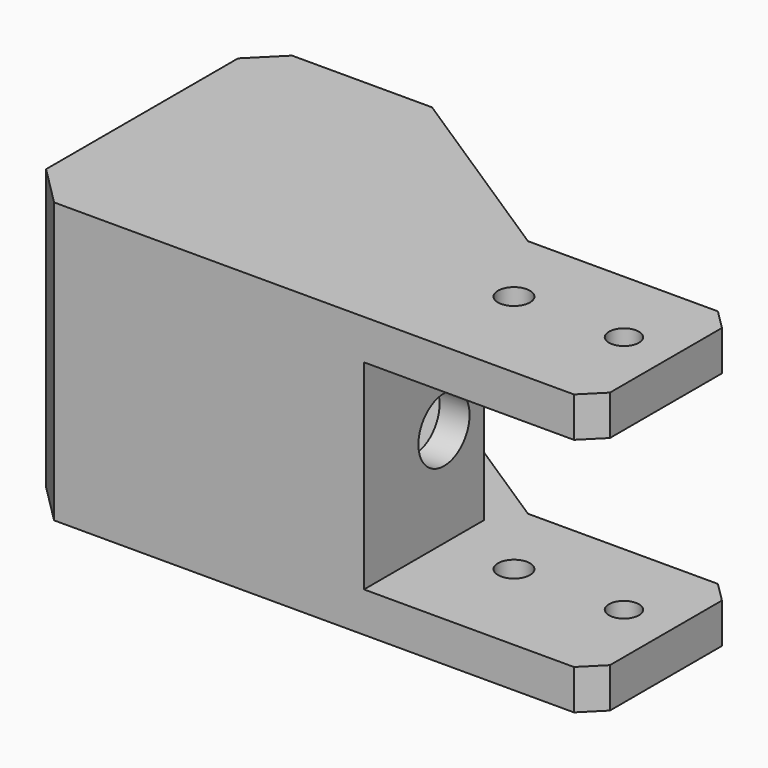
from build123d import *

# Parameters (mm, degrees)
SKETCH008_R     = 1.6
SKETCH008_R_2   = 1.5
PAD002_DEPTH    = 28
SKETCH018_W     = 29
SKETCH018_H     = 20
POCKET011_DEPTH = 42
SKETCH020_W     = 23
SKETCH020_H     = 20
POCKET013_DEPTH = 31
SKETCH021_W     = 28
SKETCH021_H     = 20
POCKET014_DEPTH = 11
SKETCH022_R     = 3.2
POCKET015_DEPTH = 5
SKETCH023_R     = 4
SKETCH023_R_2   = 1.6
POCKET016_DEPTH = 5


with BuildPart() as part:
    # Sketch008 → Pad002 (new body)
    with BuildSketch(Plane.XY):
        Polygon((-14, -17), (-10, -21), (42, -21), (44, -19), (44, -5), (42, -3), (23, -3), (3, 10), (-11, 10), (-14, 7), align=None)
        with Locations((28, -11)):
            Circle(SKETCH008_R, mode=Mode.SUBTRACT)
        with Locations((39, -11)):
            Circle(SKETCH008_R_2, mode=Mode.SUBTRACT)
    extrude(amount=PAD002_DEPTH)

    # Sketch018 (on Face6 of Pad002) → Pocket011 (cut)
    with BuildSketch(Plane.XZ.offset(21)):
        with Locations((35.5, 14)):
            Rectangle(SKETCH018_W, SKETCH018_H)
    extrude(amount=-POCKET011_DEPTH, mode=Mode.SUBTRACT)

    # Sketch020 → Pocket013 (cut)
    with BuildSketch(Plane.YZ.offset(21)):
        with Locations((5.5, 14)):
            Rectangle(SKETCH020_W, SKETCH020_H)
    extrude(amount=-POCKET013_DEPTH, mode=Mode.SUBTRACT)

    # Sketch021 (on Face17 of Pocket013) → Pocket014 (cut)
    with BuildSketch(Plane(origin=(0, -6, 0), x_dir=(-1, 0, 0), z_dir=(0, 1, 0))):
        with Locations((-4, 14)):
            Rectangle(SKETCH021_W, SKETCH021_H)
    extrude(amount=-POCKET014_DEPTH, mode=Mode.SUBTRACT)

    # Sketch022 (on Face16 of Pocket014) → Pocket015 (cut)
    with BuildSketch(Plane.YZ.offset(21)):
        with Locations((-11, 14)):
            Circle(SKETCH022_R)
    extrude(amount=-POCKET015_DEPTH, mode=Mode.SUBTRACT)

    # Sketch023 (on Face7 of Pocket015) → Pocket016 (cut)
    with BuildSketch(Plane(origin=(-14, 0, 0), x_dir=(0, -1, 0), z_dir=(-1, 0, 0))):
        with Locations((11, 14)):
            Circle(SKETCH023_R)
        with Locations((-0.5, 14)):
            Circle(SKETCH023_R_2)
    extrude(amount=-POCKET016_DEPTH, mode=Mode.SUBTRACT)


solid = part.part
